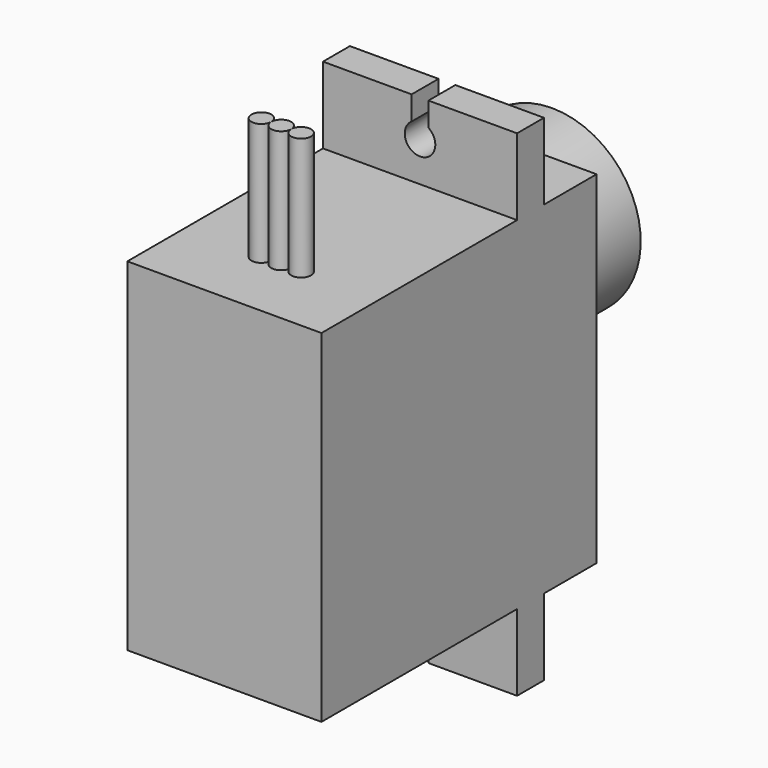
from build123d import *

# Parameters (mm, degrees)
CYLINDER003_R             = 0.65
CYLINDER003_DEPTH         = 10
CYLINDER004_R             = 0.65
CYLINDER004_DEPTH         = 10
CYLINDER005_R             = 0.65
CYLINDER005_DEPTH         = 10
CYLINDER006_R             = 1
CYLINDER006_DEPTH         = 10
BOX005_W                  = 10
BOX005_H                  = 1.1
BOX005_DEPTH              = 10
CYLINDER007_R             = 1
CYLINDER007_DEPTH         = 10
BOX006_W                  = 10
BOX006_H                  = 1.1
BOX006_DEPTH              = 10
FUSION008_PLACEMENT_ANGLE = 180
BOX004_W                  = 5
BOX004_H                  = 12.7
BOX004_DEPTH              = 4.3
BOX003_W                  = 5
BOX003_H                  = 12.7
BOX003_DEPTH              = 4.3
BOX001_W                  = 5
BOX001_H                  = 12.7
BOX001_DEPTH              = 16
BOX002_W                  = 5
BOX002_H                  = 12.7
BOX002_DEPTH              = 16
BOX_W                     = 32.4
BOX_H                     = 12.7
BOX_DEPTH                 = 22.5
CYLINDER001_R             = 2.3
CYLINDER001_DEPTH         = 29.4
CYLINDER002_R             = 2.5
CYLINDER002_DEPTH         = 26.8
CYLINDER_R                = 5.8
CYLINDER_DEPTH            = 26.8
FUSION010_PITCH_ANGLE     = 90
FUSION010_PLACEMENT_ANGLE = 90


with BuildPart() as obj1:
    # Cylinder003 → Cylinder003 (new body)
    with BuildSketch(Plane.ZY):
        Circle(CYLINDER003_R)
    extrude(amount=CYLINDER003_DEPTH)


with BuildPart() as obj2:
    # Cylinder004 → Cylinder004 (new body)
    with BuildSketch(Plane(origin=(0, 1.3, 0), x_dir=(0, 0, 1), z_dir=(-1, 0, 0))):
        Circle(CYLINDER004_R)
    extrude(amount=CYLINDER004_DEPTH)


with BuildPart() as cables:
    # Cylinder005 → Cylinder005 (new body)
    with BuildSketch(Plane(origin=(0, -1.3, 0), x_dir=(0, 0, 1), z_dir=(-1, 0, 0))):
        Circle(CYLINDER005_R)
    extrude(amount=CYLINDER005_DEPTH)

    # Fusion003: union obj1, obj2
    add(obj1.part)
    add(obj2.part)


with BuildPart() as cables_1:
    # Fusion003 placement: moved
    add(cables.part.moved(Location((7, 6.35, 4.65))))


with BuildPart() as zylinder:
    # Cylinder006 → Cylinder006 (new body)
    with BuildSketch(Plane.XY):
        Circle(CYLINDER006_R)
    extrude(amount=CYLINDER006_DEPTH)


with BuildPart() as obj3:
    # Box005 → Box005 (new body)
    with BuildSketch(Plane(origin=(-10, -0.55, 0), x_dir=(1, 0, 0), z_dir=(0, 0, 1))):
        with Locations((5, 0.55)):
            Rectangle(BOX005_W, BOX005_H)
    extrude(amount=BOX005_DEPTH)

    # Fusion007: union Zylinder
    add(zylinder.part)


with BuildPart() as obj3_1:
    # Fusion007 placement: moved
    add(obj3.part.moved(Location((2.4, 0, 0))))


with BuildPart() as zylinder001:
    # Cylinder007 → Cylinder007 (new body)
    with BuildSketch(Plane.XY):
        Circle(CYLINDER007_R)
    extrude(amount=CYLINDER007_DEPTH)


with BuildPart() as drillslots:
    # Box006 → Box006 (new body)
    with BuildSketch(Plane(origin=(-10, -0.55, 0), x_dir=(1, 0, 0), z_dir=(0, 0, 1))):
        with Locations((5, 0.55)):
            Rectangle(BOX006_W, BOX006_H)
    extrude(amount=BOX006_DEPTH)

    # Fusion008: union Zylinder001
    add(zylinder001.part)


with BuildPart() as drillslots_1:
    # Fusion008 placement: moved
    add(drillslots.part.moved(Location((30, 0, 0))).rotate(Axis((30, 0, 0), (0, 0, 1)), FUSION008_PLACEMENT_ANGLE))

    # Fusion009: union obj3
    add(obj3_1.part)


with BuildPart() as drillslots_2:
    # Fusion009 placement: moved
    add(drillslots_1.part.moved(Location((0, 6.35, 13))))


with BuildPart() as obj4:
    # Box004 → Box004 (new body)
    with BuildSketch(Plane(origin=(27.4, 0, 0), x_dir=(1, 0, 0), z_dir=(0, 0, 1))):
        with Locations((2.5, 6.35)):
            Rectangle(BOX004_W, BOX004_H)
    extrude(amount=BOX004_DEPTH)


with BuildPart() as uppercuts:
    # Box003 → Box003 (new body)
    with BuildSketch(Plane.XY):
        with Locations((2.5, 6.35)):
            Rectangle(BOX003_W, BOX003_H)
    extrude(amount=BOX003_DEPTH)

    # Fusion: union obj4
    add(obj4.part)


with BuildPart() as uppercuts_1:
    # Fusion placement: moved
    add(uppercuts.part.moved(Location((0, 0, 18.2))))


with BuildPart() as obj5:
    # Box001 → Box001 (new body)
    with BuildSketch(Plane.XY):
        with Locations((2.5, 6.35)):
            Rectangle(BOX001_W, BOX001_H)
    extrude(amount=BOX001_DEPTH)


with BuildPart() as obj6:
    # Box002 → Box002 (new body)
    with BuildSketch(Plane(origin=(27.4, 0, 0), x_dir=(1, 0, 0), z_dir=(0, 0, 1))):
        with Locations((2.5, 6.35)):
            Rectangle(BOX002_W, BOX002_H)
    extrude(amount=BOX002_DEPTH)


with BuildPart() as cutbody:
    # Box → Box (new body)
    with BuildSketch(Plane.XY):
        with Locations((16.2, 6.35)):
            Rectangle(BOX_W, BOX_H)
    extrude(amount=BOX_DEPTH)

    # Cut: cut obj6
    add(obj6.part, mode=Mode.SUBTRACT)

    # Cut001: cut obj5
    add(obj5.part, mode=Mode.SUBTRACT)

    # Cut002: cut UpperCuts
    add(uppercuts_1.part, mode=Mode.SUBTRACT)

    # Cut003: cut DrillSlots
    add(drillslots_2.part, mode=Mode.SUBTRACT)


with BuildPart() as axis:
    # Cylinder001 → Cylinder001 (new body)
    with BuildSketch(Plane(origin=(10.8, 6.35, 0), x_dir=(1, 0, 0), z_dir=(0, 0, 1))):
        Circle(CYLINDER001_R)
    extrude(amount=CYLINDER001_DEPTH)


with BuildPart() as sideaxis:
    # Cylinder002 → Cylinder002 (new body)
    with BuildSketch(Plane(origin=(17, 6.35, 0), x_dir=(1, 0, 0), z_dir=(0, 0, 1))):
        Circle(CYLINDER002_R)
    extrude(amount=CYLINDER002_DEPTH)


with BuildPart() as obj7:
    # Cylinder → Cylinder (new body)
    with BuildSketch(Plane(origin=(10.8, 6.35, 0), x_dir=(1, 0, 0), z_dir=(0, 0, 1))):
        Circle(CYLINDER_R)
    extrude(amount=CYLINDER_DEPTH)

    # Fusion004: union SideAxis
    add(sideaxis.part)

    # Fusion005: union Axis
    add(axis.part)

    # Fusion010: union Cables, CutBody
    add(cables_1.part)
    add(cutbody.part)


with BuildPart() as obj7_1:
    # Fusion010 pitch: moved
    add(obj7.part.rotate(Axis((0, 0, 0), (0, 1, 0)), FUSION010_PITCH_ANGLE))


with BuildPart() as obj7_2:
    # Fusion010 placement: moved
    add(obj7_1.part.moved(Location((6.3, -128.5, -71))).rotate(Axis((6.3, -128.5, -71), (0, 0, 1)), FUSION010_PLACEMENT_ANGLE))


solid = obj7_2.part
